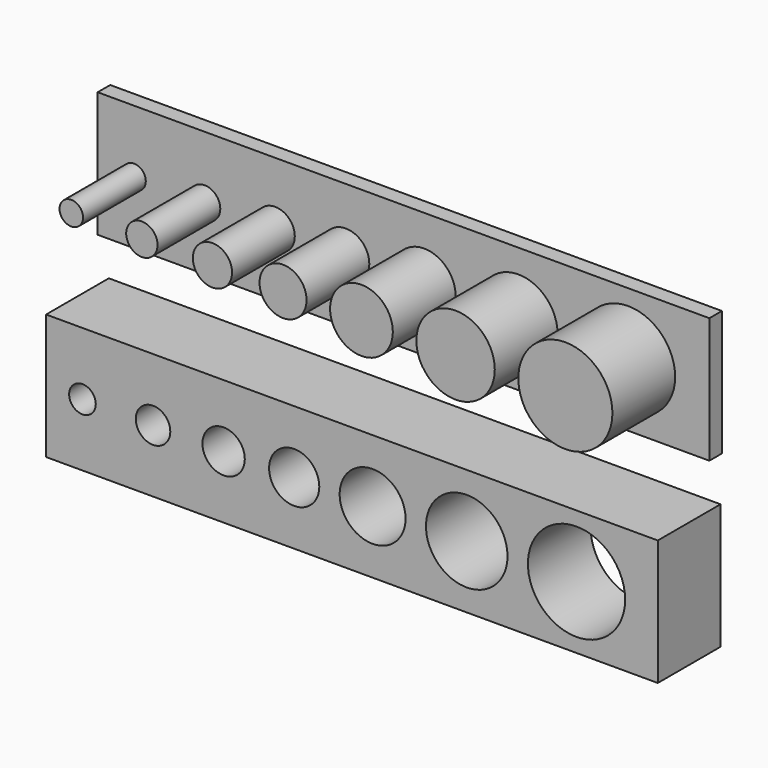
from build123d import *

# Parameters (mm, degrees)
F0_W     = 78
F0_H     = 16
F0_R     = 1.5
F0_R_2   = 2
F0_R_3   = 2.5
F0_R_4   = 3
F0_R_5   = 4
F0_R_6   = 5
F0_R_7   = 6
F2_DEPTH = 2
F3_DEPTH = 12
F1_W     = 78
F1_H     = 16
F1_R     = 3.2
F1_R_2   = 5.2
F1_R_3   = 1.7
F1_R_4   = 2.2
F1_R_5   = 2.7
F1_R_6   = 4.2
F1_R_7   = 6.2
F4_DEPTH = 10


with BuildPart() as f2:
    # F0 (on Front) → F2 (new body)
    with BuildSketch(Plane.XZ):
        with Locations((2.3918330073, 0)):
            Rectangle(F0_W, F0_H)
        with Locations((-31.9704519261, 0)):
            Circle(F0_R, mode=Mode.SUBTRACT)
        with Locations((-22.9704519261, 0)):
            Circle(F0_R_2, mode=Mode.SUBTRACT)
        with Locations((-13.9704519261, 0)):
            Circle(F0_R_3, mode=Mode.SUBTRACT)
        with Locations((-4.9704519261, 0)):
            Circle(F0_R_4, mode=Mode.SUBTRACT)
        with Locations((5.0295480739, 0)):
            Circle(F0_R_5, mode=Mode.SUBTRACT)
        with Locations((17.0295480739, 0)):
            Circle(F0_R_6, mode=Mode.SUBTRACT)
        with Locations((31.0295480739, 0)):
            Circle(F0_R_7, mode=Mode.SUBTRACT)
        with Locations((31.0295480739, 0)):
            Circle(F0_R_7)
        with Locations((17.0295480739, 0)):
            Circle(F0_R_6)
        with Locations((5.0295480739, 0)):
            Circle(F0_R_5)
        with Locations((-4.9704519261, 0)):
            Circle(F0_R_4)
        with Locations((-13.9704519261, 0)):
            Circle(F0_R_3)
        with Locations((-22.9704519261, 0)):
            Circle(F0_R_2)
        with Locations((-31.9704519261, 0)):
            Circle(F0_R)
    extrude(amount=F2_DEPTH)

    # F0 (on Front) → F3 (join)
    with BuildSketch(Plane.XZ):
        with Locations((-31.9704519261, 0)):
            Circle(F0_R)
        with Locations((-22.9704519261, 0)):
            Circle(F0_R_2)
        with Locations((-13.9704519261, 0)):
            Circle(F0_R_3)
        with Locations((-4.9704519261, 0)):
            Circle(F0_R_4)
        with Locations((5.0295480739, 0)):
            Circle(F0_R_5)
        with Locations((17.0295480739, 0)):
            Circle(F0_R_6)
        with Locations((31.0295480739, 0)):
            Circle(F0_R_7)
    extrude(amount=F3_DEPTH)


with BuildPart() as f4:
    # F1 (on Front) → F4 (new body)
    with BuildSketch(Plane.XZ):
        with Locations((2.2149536405, -21.7559370212)):
            Rectangle(F1_W, F1_H)
        with Locations((-5.147331293, -21.7559370212)):
            Circle(F1_R, mode=Mode.SUBTRACT)
        with Locations((16.852668707, -21.7559370212)):
            Circle(F1_R_2, mode=Mode.SUBTRACT)
        with Locations((-32.147331293, -21.7559370212)):
            Circle(F1_R_3, mode=Mode.SUBTRACT)
        with Locations((-23.147331293, -21.7559370212)):
            Circle(F1_R_4, mode=Mode.SUBTRACT)
        with Locations((-14.147331293, -21.7559370212)):
            Circle(F1_R_5, mode=Mode.SUBTRACT)
        with Locations((4.852668707, -21.7559370212)):
            Circle(F1_R_6, mode=Mode.SUBTRACT)
        with Locations((30.852668707, -21.7559370212)):
            Circle(F1_R_7, mode=Mode.SUBTRACT)
    extrude(amount=F4_DEPTH)


solid = Compound([f2.part, f4.part])
